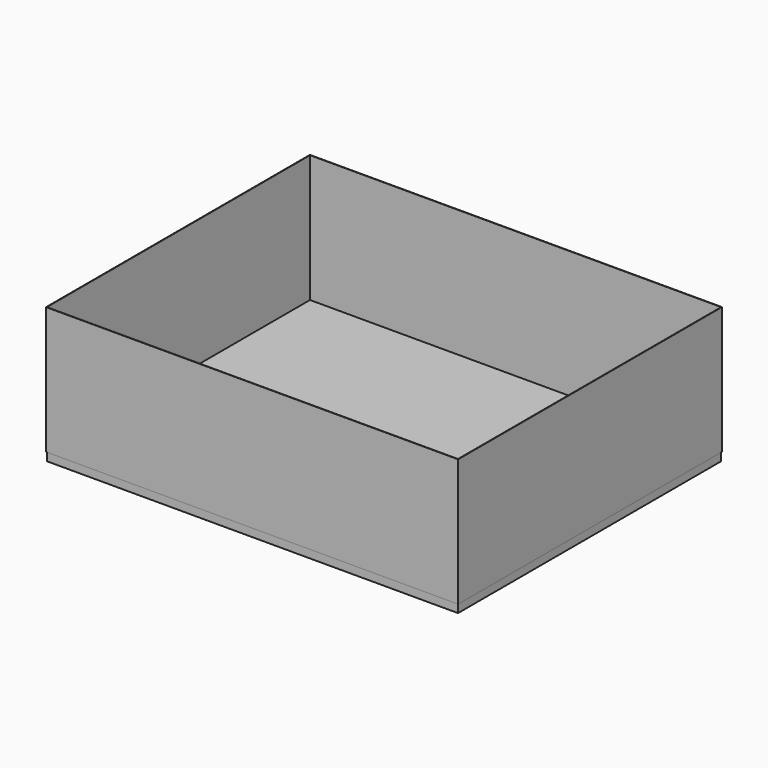
from build123d import *

# Parameters (mm, degrees)
F0_W     = 5000
F0_H     = 4000
F1_DEPTH = 100
F2_W     = 5010
F2_H     = 4010
F2_W_2   = 5000
F2_H_2   = 4000
F3_DEPTH = 1550


with BuildPart() as f1:
    # F0 (on Top) → F1 (new body)
    with BuildSketch(Plane.XY):
        Rectangle(F0_W, F0_H)
    extrude(amount=F1_DEPTH)


with BuildPart() as f3:
    # F2 (on face) → F3 (new body)
    with BuildSketch(Plane.XY.offset(100)):
        Rectangle(F2_W, F2_H)
        Rectangle(F2_W_2, F2_H_2, mode=Mode.SUBTRACT)
    extrude(amount=F3_DEPTH)


solid = Compound([f1.part, f3.part])
